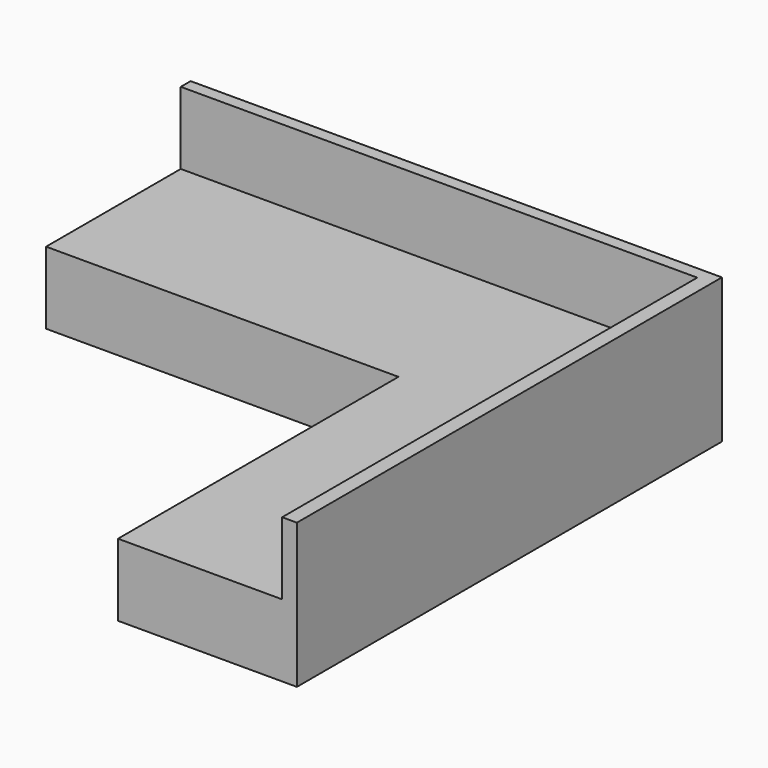
from build123d import *

# Parameters (mm, degrees)
F0_W     = 2940
F0_H     = 1000
F1_DEPTH = 400
F2_W     = 990
F2_H     = 400
F3_DEPTH = 1940
F4_W     = 2858.2814434171
F4_H     = 68.4500560164
F4_W_2   = 81.7185565829
F4_H_2   = 2871.5499439836
F5_DEPTH = 400


with BuildPart() as f1:
    # F0 (on Top) → F1 (new body)
    with BuildSketch(Plane.XY):
        with Locations((-1470, -500)):
            Rectangle(F0_W, F0_H)
    extrude(amount=F1_DEPTH)

    # F2 (on face) → F3 (join)
    with BuildSketch(Plane.XZ.offset(1000)):
        with Locations((-495, 200)):
            Rectangle(F2_W, F2_H)
    extrude(amount=F3_DEPTH)

    # F4 (on face) → F5 (join)
    with BuildSketch(Plane.XY.offset(400)):
        with Locations((-1510.8592782915, -34.2250280082)):
            Rectangle(F4_W, F4_H)
        with Locations((-40.8592782915, -34.2250280082)):
            Rectangle(F4_W_2, F4_H)
        with Locations((-40.8592782915, -1504.2250280082)):
            Rectangle(F4_W_2, F4_H_2)
    extrude(amount=F5_DEPTH)


solid = f1.part
